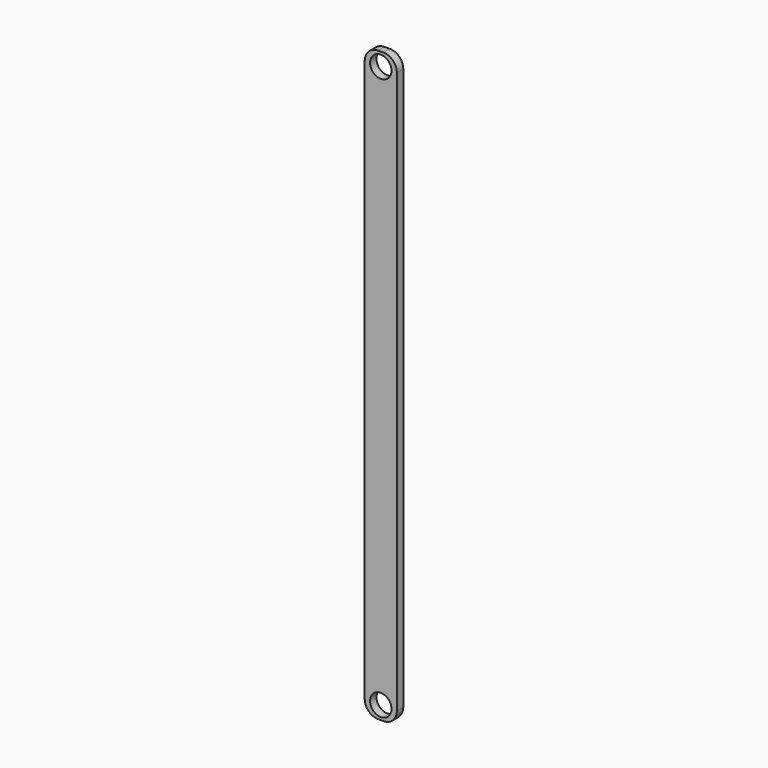
from build123d import *

# Parameters (mm, degrees)
F0_W     = 12
F0_H     = 220
F1_DEPTH = 3
F2_R     = 5
F3_R     = 5
F4_R     = 5
F5_R     = 5
F6_R     = 4
F7_DEPTH = 25


with BuildPart() as f1:
    # F0 (on Front) → F1 (new body)
    with BuildSketch(Plane.XZ):
        with Locations((6, 110)):
            Rectangle(F0_W, F0_H)
    extrude(amount=F1_DEPTH)

    # F2
    f2_edges = [f1.edges().sort_by_distance(p)[0] for p in [
        (0, -1.5, 220),
    ]]
    fillet(f2_edges, radius=F2_R)

    # F3
    f3_edges = [f1.edges().sort_by_distance(p)[0] for p in [
        (12, -1.5, 220),
    ]]
    fillet(f3_edges, radius=F3_R)

    # F4
    f4_edges = [f1.edges().sort_by_distance(p)[0] for p in [
        (0, -1.5, 0),
    ]]
    fillet(f4_edges, radius=F4_R)

    # F5
    f5_edges = [f1.edges().sort_by_distance(p)[0] for p in [
        (12, -1.5, 0),
    ]]
    fillet(f5_edges, radius=F5_R)

    # F6 (on face) → F7 (cut)
    with BuildSketch(Plane.XZ.offset(3)):
        with Locations((6, 215)):
            Circle(F6_R)
        with Locations((6, 5)):
            Circle(F6_R)
    extrude(amount=-F7_DEPTH, mode=Mode.SUBTRACT)


solid = f1.part
